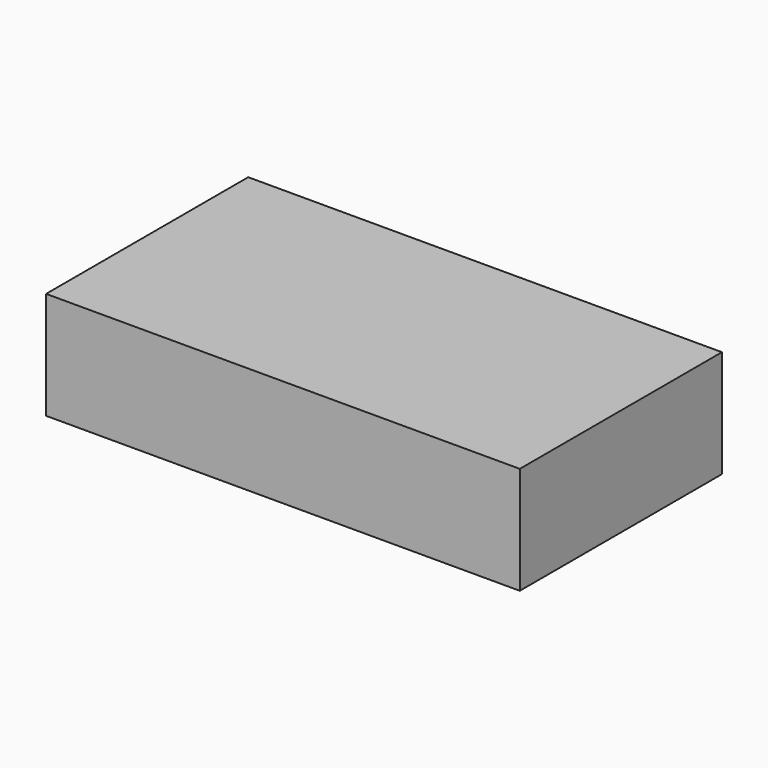
from build123d import *

# Parameters (mm, degrees)
SKETCH_W  = 15
SKETCH_H  = 8
PAD_DEPTH = 3.4


with BuildPart() as part:
    # Sketch → Pad (new body)
    with BuildSketch(Plane.XY):
        Rectangle(SKETCH_W, SKETCH_H)
    extrude(amount=PAD_DEPTH)


solid = part.part
